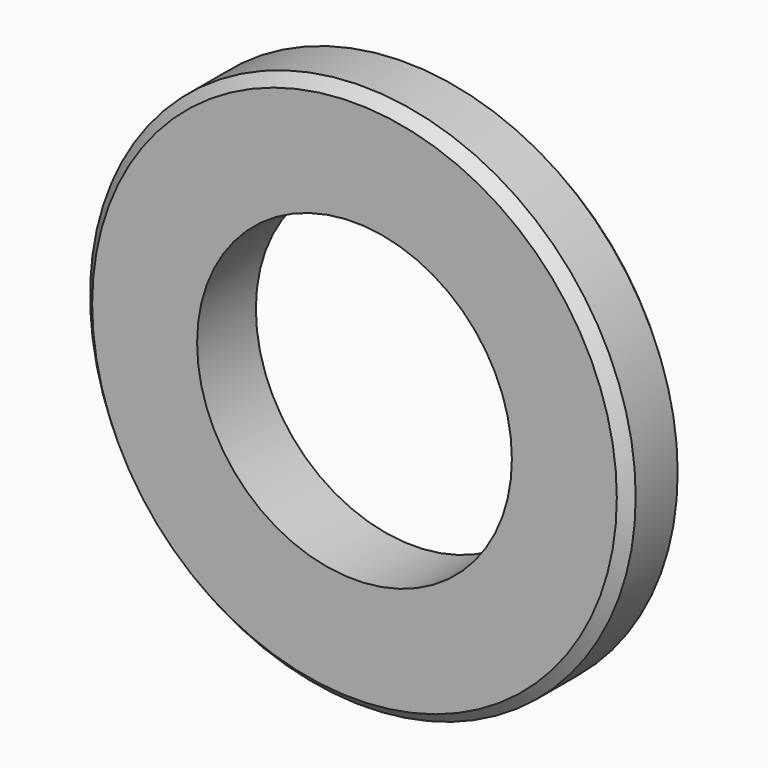
from build123d import *

# Parameters (mm, degrees)
F0_R     = 13
F0_R_2   = 7.5
F1_DEPTH = 3.5
F2_SIZE2 = 0.5
F2_SIZE  = 0.5


with BuildPart() as f1:
    # F0 (on Front) → F1 (new body)
    with BuildSketch(Plane.XZ):
        Circle(F0_R)
        Circle(F0_R_2, mode=Mode.SUBTRACT)
    extrude(amount=F1_DEPTH)

    # F2
    f2_edges = [f1.edges().sort_by_distance(p)[0] for p in [
        (-13, -3.5, 0),
        (-13, 0, 0),
    ]]
    chamfer(f2_edges, length=F2_SIZE, length2=F2_SIZE2)


solid = f1.part
